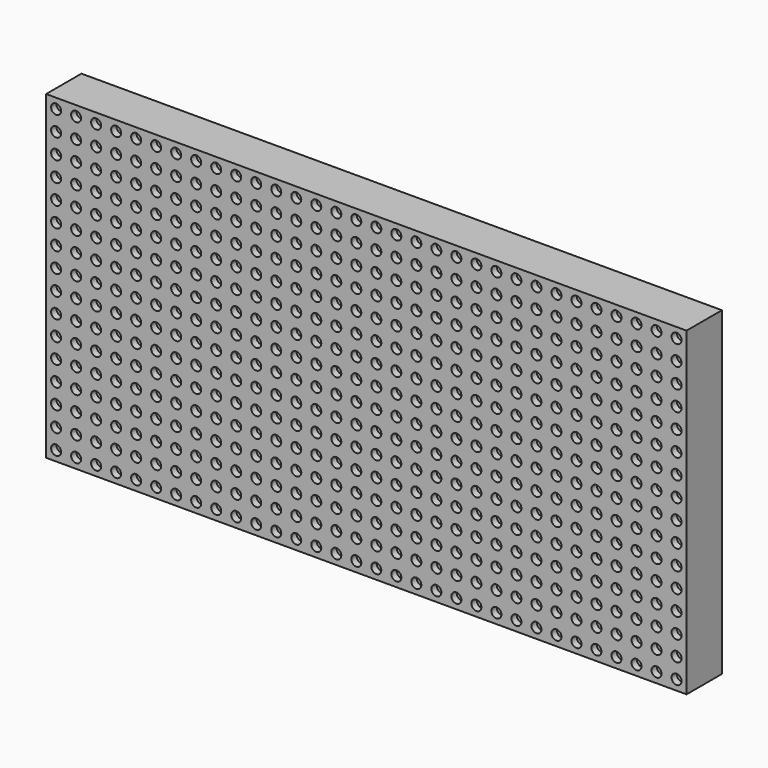
from build123d import *

# Parameters (mm, degrees)
F0_W     = 192
F0_H     = 96
F1_DEPTH = 13.25
F2_W     = 167
F2_H     = 71
F3_DEPTH = 9
F4_R     = 1.5
F5_DEPTH = 9
F6_DEPTH = 9
F7_R     = 1.5
F8_DEPTH = 2


with BuildPart() as f1:
    # F0 (on Front) → F1 (new body)
    with BuildSketch(Plane.XZ):
        with Locations((96, 48)):
            Rectangle(F0_W, F0_H)
    extrude(amount=F1_DEPTH)

    # F2 (on face) → F3 (cut)
    with BuildSketch(Plane(origin=(0, 0, 0), x_dir=(-1, 0, 0), z_dir=(0, 1, 0))):
        with Locations((-96, 48)):
            Rectangle(F2_W, F2_H)
    extrude(amount=-F3_DEPTH, mode=Mode.SUBTRACT)

    # F4 (on face) → F5 (cut)
    with BuildSketch(Plane(origin=(0, 0, 0), x_dir=(-1, 0, 0), z_dir=(0, 1, 0))):
        with Locations((-179, 86)):
            Circle(F4_R)
        with Locations((-96, 86)):
            Circle(F4_R)
        with Locations((-13, 86)):
            Circle(F4_R)
        with Locations((-179, 10)):
            Circle(F4_R)
        with Locations((-96, 10)):
            Circle(F4_R)
        with Locations((-13, 10)):
            Circle(F4_R)
    extrude(amount=-F5_DEPTH, mode=Mode.SUBTRACT)

    # F4 (on face) → F6 (cut)
    with BuildSketch(Plane(origin=(0, 0, 0), x_dir=(-1, 0, 0), z_dir=(0, 1, 0))):
        with Locations((-179, 86)):
            Circle(F4_R)
        with Locations((-96, 86)):
            Circle(F4_R)
        with Locations((-13, 86)):
            Circle(F4_R)
        with Locations((-179, 10)):
            Circle(F4_R)
        with Locations((-96, 10)):
            Circle(F4_R)
        with Locations((-13, 10)):
            Circle(F4_R)
    extrude(amount=-F6_DEPTH, mode=Mode.SUBTRACT)

    # F7 (on face) → F8 (cut)
    with BuildSketch(Plane.XZ.offset(13.25)):
        with Locations((3, 3)):
            Circle(F7_R)
        with Locations((3, 9)):
            Circle(F7_R)
        with Locations((3, 15)):
            Circle(F7_R)
        with Locations((3, 21)):
            Circle(F7_R)
        with Locations((3, 27)):
            Circle(F7_R)
        with Locations((3, 33)):
            Circle(F7_R)
        with Locations((3, 39)):
            Circle(F7_R)
        with Locations((3, 45)):
            Circle(F7_R)
        with Locations((3, 51)):
            Circle(F7_R)
        with Locations((3, 57)):
            Circle(F7_R)
        with Locations((3, 63)):
            Circle(F7_R)
        with Locations((3, 69)):
            Circle(F7_R)
        with Locations((3, 75)):
            Circle(F7_R)
        with Locations((3, 81)):
            Circle(F7_R)
        with Locations((3, 87)):
            Circle(F7_R)
        with Locations((3, 93)):
            Circle(F7_R)
        with Locations((9, 3)):
            Circle(F7_R)
        with Locations((9, 9)):
            Circle(F7_R)
        with Locations((9, 15)):
            Circle(F7_R)
        with Locations((9, 21)):
            Circle(F7_R)
        with Locations((9, 27)):
            Circle(F7_R)
        with Locations((9, 33)):
            Circle(F7_R)
        with Locations((9, 39)):
            Circle(F7_R)
        with Locations((9, 45)):
            Circle(F7_R)
        with Locations((9, 51)):
            Circle(F7_R)
        with Locations((9, 57)):
            Circle(F7_R)
        with Locations((9, 63)):
            Circle(F7_R)
        with Locations((9, 69)):
            Circle(F7_R)
        with Locations((9, 75)):
            Circle(F7_R)
        with Locations((9, 81)):
            Circle(F7_R)
        with Locations((9, 87)):
            Circle(F7_R)
        with Locations((9, 93)):
            Circle(F7_R)
        with Locations((15, 3)):
            Circle(F7_R)
        with Locations((15, 9)):
            Circle(F7_R)
        with Locations((15, 15)):
            Circle(F7_R)
        with Locations((15, 21)):
            Circle(F7_R)
        with Locations((15, 27)):
            Circle(F7_R)
        with Locations((15, 33)):
            Circle(F7_R)
        with Locations((15, 39)):
            Circle(F7_R)
        with Locations((15, 45)):
            Circle(F7_R)
        with Locations((15, 51)):
            Circle(F7_R)
        with Locations((15, 57)):
            Circle(F7_R)
        with Locations((15, 63)):
            Circle(F7_R)
        with Locations((15, 69)):
            Circle(F7_R)
        with Locations((15, 75)):
            Circle(F7_R)
        with Locations((15, 81)):
            Circle(F7_R)
        with Locations((15, 87)):
            Circle(F7_R)
        with Locations((15, 93)):
            Circle(F7_R)
        with Locations((21, 3)):
            Circle(F7_R)
        with Locations((21, 9)):
            Circle(F7_R)
        with Locations((21, 15)):
            Circle(F7_R)
        with Locations((21, 21)):
            Circle(F7_R)
        with Locations((21, 27)):
            Circle(F7_R)
        with Locations((21, 33)):
            Circle(F7_R)
        with Locations((21, 39)):
            Circle(F7_R)
        with Locations((21, 45)):
            Circle(F7_R)
        with Locations((21, 51)):
            Circle(F7_R)
        with Locations((21, 57)):
            Circle(F7_R)
        with Locations((21, 63)):
            Circle(F7_R)
        with Locations((21, 69)):
            Circle(F7_R)
        with Locations((21, 75)):
            Circle(F7_R)
        with Locations((21, 81)):
            Circle(F7_R)
        with Locations((21, 87)):
            Circle(F7_R)
        with Locations((21, 93)):
            Circle(F7_R)
        with Locations((27, 3)):
            Circle(F7_R)
        with Locations((27, 9)):
            Circle(F7_R)
        with Locations((27, 15)):
            Circle(F7_R)
        with Locations((27, 21)):
            Circle(F7_R)
        with Locations((27, 27)):
            Circle(F7_R)
        with Locations((27, 33)):
            Circle(F7_R)
        with Locations((27, 39)):
            Circle(F7_R)
        with Locations((27, 45)):
            Circle(F7_R)
        with Locations((27, 51)):
            Circle(F7_R)
        with Locations((27, 57)):
            Circle(F7_R)
        with Locations((27, 63)):
            Circle(F7_R)
        with Locations((27, 69)):
            Circle(F7_R)
        with Locations((27, 75)):
            Circle(F7_R)
        with Locations((27, 81)):
            Circle(F7_R)
        with Locations((27, 87)):
            Circle(F7_R)
        with Locations((27, 93)):
            Circle(F7_R)
        with Locations((33, 3)):
            Circle(F7_R)
        with Locations((33, 9)):
            Circle(F7_R)
        with Locations((33, 15)):
            Circle(F7_R)
        with Locations((33, 21)):
            Circle(F7_R)
        with Locations((33, 27)):
            Circle(F7_R)
        with Locations((33, 33)):
            Circle(F7_R)
        with Locations((33, 39)):
            Circle(F7_R)
        with Locations((33, 45)):
            Circle(F7_R)
        with Locations((33, 51)):
            Circle(F7_R)
        with Locations((33, 57)):
            Circle(F7_R)
        with Locations((33, 63)):
            Circle(F7_R)
        with Locations((33, 69)):
            Circle(F7_R)
        with Locations((33, 75)):
            Circle(F7_R)
        with Locations((33, 81)):
            Circle(F7_R)
        with Locations((33, 87)):
            Circle(F7_R)
        with Locations((33, 93)):
            Circle(F7_R)
        with Locations((39, 3)):
            Circle(F7_R)
        with Locations((39, 9)):
            Circle(F7_R)
        with Locations((39, 15)):
            Circle(F7_R)
        with Locations((39, 21)):
            Circle(F7_R)
        with Locations((39, 27)):
            Circle(F7_R)
        with Locations((39, 33)):
            Circle(F7_R)
        with Locations((39, 39)):
            Circle(F7_R)
        with Locations((39, 45)):
            Circle(F7_R)
        with Locations((39, 51)):
            Circle(F7_R)
        with Locations((39, 57)):
            Circle(F7_R)
        with Locations((39, 63)):
            Circle(F7_R)
        with Locations((39, 69)):
            Circle(F7_R)
        with Locations((39, 75)):
            Circle(F7_R)
        with Locations((39, 81)):
            Circle(F7_R)
        with Locations((39, 87)):
            Circle(F7_R)
        with Locations((39, 93)):
            Circle(F7_R)
        with Locations((45, 3)):
            Circle(F7_R)
        with Locations((45, 9)):
            Circle(F7_R)
        with Locations((45, 15)):
            Circle(F7_R)
        with Locations((45, 21)):
            Circle(F7_R)
        with Locations((45, 27)):
            Circle(F7_R)
        with Locations((45, 33)):
            Circle(F7_R)
        with Locations((45, 39)):
            Circle(F7_R)
        with Locations((45, 45)):
            Circle(F7_R)
        with Locations((45, 51)):
            Circle(F7_R)
        with Locations((45, 57)):
            Circle(F7_R)
        with Locations((45, 63)):
            Circle(F7_R)
        with Locations((45, 69)):
            Circle(F7_R)
        with Locations((45, 75)):
            Circle(F7_R)
        with Locations((45, 81)):
            Circle(F7_R)
        with Locations((45, 87)):
            Circle(F7_R)
        with Locations((45, 93)):
            Circle(F7_R)
        with Locations((51, 3)):
            Circle(F7_R)
        with Locations((51, 9)):
            Circle(F7_R)
        with Locations((51, 15)):
            Circle(F7_R)
        with Locations((51, 21)):
            Circle(F7_R)
        with Locations((51, 27)):
            Circle(F7_R)
        with Locations((51, 33)):
            Circle(F7_R)
        with Locations((51, 39)):
            Circle(F7_R)
        with Locations((51, 45)):
            Circle(F7_R)
        with Locations((51, 51)):
            Circle(F7_R)
        with Locations((51, 57)):
            Circle(F7_R)
        with Locations((51, 63)):
            Circle(F7_R)
        with Locations((51, 69)):
            Circle(F7_R)
        with Locations((51, 75)):
            Circle(F7_R)
        with Locations((51, 81)):
            Circle(F7_R)
        with Locations((51, 87)):
            Circle(F7_R)
        with Locations((51, 93)):
            Circle(F7_R)
        with Locations((57, 3)):
            Circle(F7_R)
        with Locations((57, 9)):
            Circle(F7_R)
        with Locations((57, 15)):
            Circle(F7_R)
        with Locations((57, 21)):
            Circle(F7_R)
        with Locations((57, 27)):
            Circle(F7_R)
        with Locations((57, 33)):
            Circle(F7_R)
        with Locations((57, 39)):
            Circle(F7_R)
        with Locations((57, 45)):
            Circle(F7_R)
        with Locations((57, 51)):
            Circle(F7_R)
        with Locations((57, 57)):
            Circle(F7_R)
        with Locations((57, 63)):
            Circle(F7_R)
        with Locations((57, 69)):
            Circle(F7_R)
        with Locations((57, 75)):
            Circle(F7_R)
        with Locations((57, 81)):
            Circle(F7_R)
        with Locations((57, 87)):
            Circle(F7_R)
        with Locations((57, 93)):
            Circle(F7_R)
        with Locations((63, 3)):
            Circle(F7_R)
        with Locations((63, 9)):
            Circle(F7_R)
        with Locations((63, 15)):
            Circle(F7_R)
        with Locations((63, 21)):
            Circle(F7_R)
        with Locations((63, 27)):
            Circle(F7_R)
        with Locations((63, 33)):
            Circle(F7_R)
        with Locations((63, 39)):
            Circle(F7_R)
        with Locations((63, 45)):
            Circle(F7_R)
        with Locations((63, 51)):
            Circle(F7_R)
        with Locations((63, 57)):
            Circle(F7_R)
        with Locations((63, 63)):
            Circle(F7_R)
        with Locations((63, 69)):
            Circle(F7_R)
        with Locations((63, 75)):
            Circle(F7_R)
        with Locations((63, 81)):
            Circle(F7_R)
        with Locations((63, 87)):
            Circle(F7_R)
        with Locations((63, 93)):
            Circle(F7_R)
        with Locations((69, 3)):
            Circle(F7_R)
        with Locations((69, 9)):
            Circle(F7_R)
        with Locations((69, 15)):
            Circle(F7_R)
        with Locations((69, 21)):
            Circle(F7_R)
        with Locations((69, 27)):
            Circle(F7_R)
        with Locations((69, 33)):
            Circle(F7_R)
        with Locations((69, 39)):
            Circle(F7_R)
        with Locations((69, 45)):
            Circle(F7_R)
        with Locations((69, 51)):
            Circle(F7_R)
        with Locations((69, 57)):
            Circle(F7_R)
        with Locations((69, 63)):
            Circle(F7_R)
        with Locations((69, 69)):
            Circle(F7_R)
        with Locations((69, 75)):
            Circle(F7_R)
        with Locations((69, 81)):
            Circle(F7_R)
        with Locations((69, 87)):
            Circle(F7_R)
        with Locations((69, 93)):
            Circle(F7_R)
        with Locations((75, 3)):
            Circle(F7_R)
        with Locations((75, 9)):
            Circle(F7_R)
        with Locations((75, 15)):
            Circle(F7_R)
        with Locations((75, 21)):
            Circle(F7_R)
        with Locations((75, 27)):
            Circle(F7_R)
        with Locations((75, 33)):
            Circle(F7_R)
        with Locations((75, 39)):
            Circle(F7_R)
        with Locations((75, 45)):
            Circle(F7_R)
        with Locations((75, 51)):
            Circle(F7_R)
        with Locations((75, 57)):
            Circle(F7_R)
        with Locations((75, 63)):
            Circle(F7_R)
        with Locations((75, 69)):
            Circle(F7_R)
        with Locations((75, 75)):
            Circle(F7_R)
        with Locations((75, 81)):
            Circle(F7_R)
        with Locations((75, 87)):
            Circle(F7_R)
        with Locations((75, 93)):
            Circle(F7_R)
        with Locations((81, 3)):
            Circle(F7_R)
        with Locations((81, 9)):
            Circle(F7_R)
        with Locations((81, 15)):
            Circle(F7_R)
        with Locations((81, 21)):
            Circle(F7_R)
        with Locations((81, 27)):
            Circle(F7_R)
        with Locations((81, 33)):
            Circle(F7_R)
        with Locations((81, 39)):
            Circle(F7_R)
        with Locations((81, 45)):
            Circle(F7_R)
        with Locations((81, 51)):
            Circle(F7_R)
        with Locations((81, 57)):
            Circle(F7_R)
        with Locations((81, 63)):
            Circle(F7_R)
        with Locations((81, 69)):
            Circle(F7_R)
        with Locations((81, 75)):
            Circle(F7_R)
        with Locations((81, 81)):
            Circle(F7_R)
        with Locations((81, 87)):
            Circle(F7_R)
        with Locations((81, 93)):
            Circle(F7_R)
        with Locations((87, 3)):
            Circle(F7_R)
        with Locations((87, 9)):
            Circle(F7_R)
        with Locations((87, 15)):
            Circle(F7_R)
        with Locations((87, 21)):
            Circle(F7_R)
        with Locations((87, 27)):
            Circle(F7_R)
        with Locations((87, 33)):
            Circle(F7_R)
        with Locations((87, 39)):
            Circle(F7_R)
        with Locations((87, 45)):
            Circle(F7_R)
        with Locations((87, 51)):
            Circle(F7_R)
        with Locations((87, 57)):
            Circle(F7_R)
        with Locations((87, 63)):
            Circle(F7_R)
        with Locations((87, 69)):
            Circle(F7_R)
        with Locations((87, 75)):
            Circle(F7_R)
        with Locations((87, 81)):
            Circle(F7_R)
        with Locations((87, 87)):
            Circle(F7_R)
        with Locations((87, 93)):
            Circle(F7_R)
        with Locations((93, 3)):
            Circle(F7_R)
        with Locations((93, 9)):
            Circle(F7_R)
        with Locations((93, 15)):
            Circle(F7_R)
        with Locations((93, 21)):
            Circle(F7_R)
        with Locations((93, 27)):
            Circle(F7_R)
        with Locations((93, 33)):
            Circle(F7_R)
        with Locations((93, 39)):
            Circle(F7_R)
        with Locations((93, 45)):
            Circle(F7_R)
        with Locations((93, 51)):
            Circle(F7_R)
        with Locations((93, 57)):
            Circle(F7_R)
        with Locations((93, 63)):
            Circle(F7_R)
        with Locations((93, 69)):
            Circle(F7_R)
        with Locations((93, 75)):
            Circle(F7_R)
        with Locations((93, 81)):
            Circle(F7_R)
        with Locations((93, 87)):
            Circle(F7_R)
        with Locations((93, 93)):
            Circle(F7_R)
        with Locations((99, 3)):
            Circle(F7_R)
        with Locations((99, 9)):
            Circle(F7_R)
        with Locations((99, 15)):
            Circle(F7_R)
        with Locations((99, 21)):
            Circle(F7_R)
        with Locations((99, 27)):
            Circle(F7_R)
        with Locations((99, 33)):
            Circle(F7_R)
        with Locations((99, 39)):
            Circle(F7_R)
        with Locations((99, 45)):
            Circle(F7_R)
        with Locations((99, 51)):
            Circle(F7_R)
        with Locations((99, 57)):
            Circle(F7_R)
        with Locations((99, 63)):
            Circle(F7_R)
        with Locations((99, 69)):
            Circle(F7_R)
        with Locations((99, 75)):
            Circle(F7_R)
        with Locations((99, 81)):
            Circle(F7_R)
        with Locations((99, 87)):
            Circle(F7_R)
        with Locations((99, 93)):
            Circle(F7_R)
        with Locations((105, 3)):
            Circle(F7_R)
        with Locations((105, 9)):
            Circle(F7_R)
        with Locations((105, 15)):
            Circle(F7_R)
        with Locations((105, 21)):
            Circle(F7_R)
        with Locations((105, 27)):
            Circle(F7_R)
        with Locations((105, 33)):
            Circle(F7_R)
        with Locations((105, 39)):
            Circle(F7_R)
        with Locations((105, 45)):
            Circle(F7_R)
        with Locations((105, 51)):
            Circle(F7_R)
        with Locations((105, 57)):
            Circle(F7_R)
        with Locations((105, 63)):
            Circle(F7_R)
        with Locations((105, 69)):
            Circle(F7_R)
        with Locations((105, 75)):
            Circle(F7_R)
        with Locations((105, 81)):
            Circle(F7_R)
        with Locations((105, 87)):
            Circle(F7_R)
        with Locations((105, 93)):
            Circle(F7_R)
        with Locations((111, 3)):
            Circle(F7_R)
        with Locations((111, 9)):
            Circle(F7_R)
        with Locations((111, 15)):
            Circle(F7_R)
        with Locations((111, 21)):
            Circle(F7_R)
        with Locations((111, 27)):
            Circle(F7_R)
        with Locations((111, 33)):
            Circle(F7_R)
        with Locations((111, 39)):
            Circle(F7_R)
        with Locations((111, 45)):
            Circle(F7_R)
        with Locations((111, 51)):
            Circle(F7_R)
        with Locations((111, 57)):
            Circle(F7_R)
        with Locations((111, 63)):
            Circle(F7_R)
        with Locations((111, 69)):
            Circle(F7_R)
        with Locations((111, 75)):
            Circle(F7_R)
        with Locations((111, 81)):
            Circle(F7_R)
        with Locations((111, 87)):
            Circle(F7_R)
        with Locations((111, 93)):
            Circle(F7_R)
        with Locations((117, 3)):
            Circle(F7_R)
        with Locations((117, 9)):
            Circle(F7_R)
        with Locations((117, 15)):
            Circle(F7_R)
        with Locations((117, 21)):
            Circle(F7_R)
        with Locations((117, 27)):
            Circle(F7_R)
        with Locations((117, 33)):
            Circle(F7_R)
        with Locations((117, 39)):
            Circle(F7_R)
        with Locations((117, 45)):
            Circle(F7_R)
        with Locations((117, 51)):
            Circle(F7_R)
        with Locations((117, 57)):
            Circle(F7_R)
        with Locations((117, 63)):
            Circle(F7_R)
        with Locations((117, 69)):
            Circle(F7_R)
        with Locations((117, 75)):
            Circle(F7_R)
        with Locations((117, 81)):
            Circle(F7_R)
        with Locations((117, 87)):
            Circle(F7_R)
        with Locations((117, 93)):
            Circle(F7_R)
        with Locations((123, 3)):
            Circle(F7_R)
        with Locations((123, 9)):
            Circle(F7_R)
        with Locations((123, 15)):
            Circle(F7_R)
        with Locations((123, 21)):
            Circle(F7_R)
        with Locations((123, 27)):
            Circle(F7_R)
        with Locations((123, 33)):
            Circle(F7_R)
        with Locations((123, 39)):
            Circle(F7_R)
        with Locations((123, 45)):
            Circle(F7_R)
        with Locations((123, 51)):
            Circle(F7_R)
        with Locations((123, 57)):
            Circle(F7_R)
        with Locations((123, 63)):
            Circle(F7_R)
        with Locations((123, 69)):
            Circle(F7_R)
        with Locations((123, 75)):
            Circle(F7_R)
        with Locations((123, 81)):
            Circle(F7_R)
        with Locations((123, 87)):
            Circle(F7_R)
        with Locations((123, 93)):
            Circle(F7_R)
        with Locations((129, 3)):
            Circle(F7_R)
        with Locations((129, 9)):
            Circle(F7_R)
        with Locations((129, 15)):
            Circle(F7_R)
        with Locations((129, 21)):
            Circle(F7_R)
        with Locations((129, 27)):
            Circle(F7_R)
        with Locations((129, 33)):
            Circle(F7_R)
        with Locations((129, 39)):
            Circle(F7_R)
        with Locations((129, 45)):
            Circle(F7_R)
        with Locations((129, 51)):
            Circle(F7_R)
        with Locations((129, 57)):
            Circle(F7_R)
        with Locations((129, 63)):
            Circle(F7_R)
        with Locations((129, 69)):
            Circle(F7_R)
        with Locations((129, 75)):
            Circle(F7_R)
        with Locations((129, 81)):
            Circle(F7_R)
        with Locations((129, 87)):
            Circle(F7_R)
        with Locations((129, 93)):
            Circle(F7_R)
        with Locations((135, 3)):
            Circle(F7_R)
        with Locations((135, 9)):
            Circle(F7_R)
        with Locations((135, 15)):
            Circle(F7_R)
        with Locations((135, 21)):
            Circle(F7_R)
        with Locations((135, 27)):
            Circle(F7_R)
        with Locations((135, 33)):
            Circle(F7_R)
        with Locations((135, 39)):
            Circle(F7_R)
        with Locations((135, 45)):
            Circle(F7_R)
        with Locations((135, 51)):
            Circle(F7_R)
        with Locations((135, 57)):
            Circle(F7_R)
        with Locations((135, 63)):
            Circle(F7_R)
        with Locations((135, 69)):
            Circle(F7_R)
        with Locations((135, 75)):
            Circle(F7_R)
        with Locations((135, 81)):
            Circle(F7_R)
        with Locations((135, 87)):
            Circle(F7_R)
        with Locations((135, 93)):
            Circle(F7_R)
        with Locations((141, 3)):
            Circle(F7_R)
        with Locations((141, 9)):
            Circle(F7_R)
        with Locations((141, 15)):
            Circle(F7_R)
        with Locations((141, 21)):
            Circle(F7_R)
        with Locations((141, 27)):
            Circle(F7_R)
        with Locations((141, 33)):
            Circle(F7_R)
        with Locations((141, 39)):
            Circle(F7_R)
        with Locations((141, 45)):
            Circle(F7_R)
        with Locations((141, 51)):
            Circle(F7_R)
        with Locations((141, 57)):
            Circle(F7_R)
        with Locations((141, 63)):
            Circle(F7_R)
        with Locations((141, 69)):
            Circle(F7_R)
        with Locations((141, 75)):
            Circle(F7_R)
        with Locations((141, 81)):
            Circle(F7_R)
        with Locations((141, 87)):
            Circle(F7_R)
        with Locations((141, 93)):
            Circle(F7_R)
        with Locations((147, 3)):
            Circle(F7_R)
        with Locations((147, 9)):
            Circle(F7_R)
        with Locations((147, 15)):
            Circle(F7_R)
        with Locations((147, 21)):
            Circle(F7_R)
        with Locations((147, 27)):
            Circle(F7_R)
        with Locations((147, 33)):
            Circle(F7_R)
        with Locations((147, 39)):
            Circle(F7_R)
        with Locations((147, 45)):
            Circle(F7_R)
        with Locations((147, 51)):
            Circle(F7_R)
        with Locations((147, 57)):
            Circle(F7_R)
        with Locations((147, 63)):
            Circle(F7_R)
        with Locations((147, 69)):
            Circle(F7_R)
        with Locations((147, 75)):
            Circle(F7_R)
        with Locations((147, 81)):
            Circle(F7_R)
        with Locations((147, 87)):
            Circle(F7_R)
        with Locations((147, 93)):
            Circle(F7_R)
        with Locations((153, 3)):
            Circle(F7_R)
        with Locations((153, 9)):
            Circle(F7_R)
        with Locations((153, 15)):
            Circle(F7_R)
        with Locations((153, 21)):
            Circle(F7_R)
        with Locations((153, 27)):
            Circle(F7_R)
        with Locations((153, 33)):
            Circle(F7_R)
        with Locations((153, 39)):
            Circle(F7_R)
        with Locations((153, 45)):
            Circle(F7_R)
        with Locations((153, 51)):
            Circle(F7_R)
        with Locations((153, 57)):
            Circle(F7_R)
        with Locations((153, 63)):
            Circle(F7_R)
        with Locations((153, 69)):
            Circle(F7_R)
        with Locations((153, 75)):
            Circle(F7_R)
        with Locations((153, 81)):
            Circle(F7_R)
        with Locations((153, 87)):
            Circle(F7_R)
        with Locations((153, 93)):
            Circle(F7_R)
        with Locations((159, 3)):
            Circle(F7_R)
        with Locations((159, 9)):
            Circle(F7_R)
        with Locations((159, 15)):
            Circle(F7_R)
        with Locations((159, 21)):
            Circle(F7_R)
        with Locations((159, 27)):
            Circle(F7_R)
        with Locations((159, 33)):
            Circle(F7_R)
        with Locations((159, 39)):
            Circle(F7_R)
        with Locations((159, 45)):
            Circle(F7_R)
        with Locations((159, 51)):
            Circle(F7_R)
        with Locations((159, 57)):
            Circle(F7_R)
        with Locations((159, 63)):
            Circle(F7_R)
        with Locations((159, 69)):
            Circle(F7_R)
        with Locations((159, 75)):
            Circle(F7_R)
        with Locations((159, 81)):
            Circle(F7_R)
        with Locations((159, 87)):
            Circle(F7_R)
        with Locations((159, 93)):
            Circle(F7_R)
        with Locations((165, 3)):
            Circle(F7_R)
        with Locations((165, 9)):
            Circle(F7_R)
        with Locations((165, 15)):
            Circle(F7_R)
        with Locations((165, 21)):
            Circle(F7_R)
        with Locations((165, 27)):
            Circle(F7_R)
        with Locations((165, 33)):
            Circle(F7_R)
        with Locations((165, 39)):
            Circle(F7_R)
        with Locations((165, 45)):
            Circle(F7_R)
        with Locations((165, 51)):
            Circle(F7_R)
        with Locations((165, 57)):
            Circle(F7_R)
        with Locations((165, 63)):
            Circle(F7_R)
        with Locations((165, 69)):
            Circle(F7_R)
        with Locations((165, 75)):
            Circle(F7_R)
        with Locations((165, 81)):
            Circle(F7_R)
        with Locations((165, 87)):
            Circle(F7_R)
        with Locations((165, 93)):
            Circle(F7_R)
        with Locations((171, 3)):
            Circle(F7_R)
        with Locations((171, 9)):
            Circle(F7_R)
        with Locations((171, 15)):
            Circle(F7_R)
        with Locations((171, 21)):
            Circle(F7_R)
        with Locations((171, 27)):
            Circle(F7_R)
        with Locations((171, 33)):
            Circle(F7_R)
        with Locations((171, 39)):
            Circle(F7_R)
        with Locations((171, 45)):
            Circle(F7_R)
        with Locations((171, 51)):
            Circle(F7_R)
        with Locations((171, 57)):
            Circle(F7_R)
        with Locations((171, 63)):
            Circle(F7_R)
        with Locations((171, 69)):
            Circle(F7_R)
        with Locations((171, 75)):
            Circle(F7_R)
        with Locations((171, 81)):
            Circle(F7_R)
        with Locations((171, 87)):
            Circle(F7_R)
        with Locations((171, 93)):
            Circle(F7_R)
        with Locations((177, 3)):
            Circle(F7_R)
        with Locations((177, 9)):
            Circle(F7_R)
        with Locations((177, 15)):
            Circle(F7_R)
        with Locations((177, 21)):
            Circle(F7_R)
        with Locations((177, 27)):
            Circle(F7_R)
        with Locations((177, 33)):
            Circle(F7_R)
        with Locations((177, 39)):
            Circle(F7_R)
        with Locations((177, 45)):
            Circle(F7_R)
        with Locations((177, 51)):
            Circle(F7_R)
        with Locations((177, 57)):
            Circle(F7_R)
        with Locations((177, 63)):
            Circle(F7_R)
        with Locations((177, 69)):
            Circle(F7_R)
        with Locations((177, 75)):
            Circle(F7_R)
        with Locations((177, 81)):
            Circle(F7_R)
        with Locations((177, 87)):
            Circle(F7_R)
        with Locations((177, 93)):
            Circle(F7_R)
        with Locations((183, 3)):
            Circle(F7_R)
        with Locations((183, 9)):
            Circle(F7_R)
        with Locations((183, 15)):
            Circle(F7_R)
        with Locations((183, 21)):
            Circle(F7_R)
        with Locations((183, 27)):
            Circle(F7_R)
        with Locations((183, 33)):
            Circle(F7_R)
        with Locations((183, 39)):
            Circle(F7_R)
        with Locations((183, 45)):
            Circle(F7_R)
        with Locations((183, 51)):
            Circle(F7_R)
        with Locations((183, 57)):
            Circle(F7_R)
        with Locations((183, 63)):
            Circle(F7_R)
        with Locations((183, 69)):
            Circle(F7_R)
        with Locations((183, 75)):
            Circle(F7_R)
        with Locations((183, 81)):
            Circle(F7_R)
        with Locations((183, 87)):
            Circle(F7_R)
        with Locations((183, 93)):
            Circle(F7_R)
        with Locations((189, 3)):
            Circle(F7_R)
        with Locations((189, 9)):
            Circle(F7_R)
        with Locations((189, 15)):
            Circle(F7_R)
        with Locations((189, 21)):
            Circle(F7_R)
        with Locations((189, 27)):
            Circle(F7_R)
        with Locations((189, 33)):
            Circle(F7_R)
        with Locations((189, 39)):
            Circle(F7_R)
        with Locations((189, 45)):
            Circle(F7_R)
        with Locations((189, 51)):
            Circle(F7_R)
        with Locations((189, 57)):
            Circle(F7_R)
        with Locations((189, 63)):
            Circle(F7_R)
        with Locations((189, 69)):
            Circle(F7_R)
        with Locations((189, 75)):
            Circle(F7_R)
        with Locations((189, 81)):
            Circle(F7_R)
        with Locations((189, 87)):
            Circle(F7_R)
        with Locations((189, 93)):
            Circle(F7_R)
    extrude(amount=-F8_DEPTH, mode=Mode.SUBTRACT)


solid = f1.part
